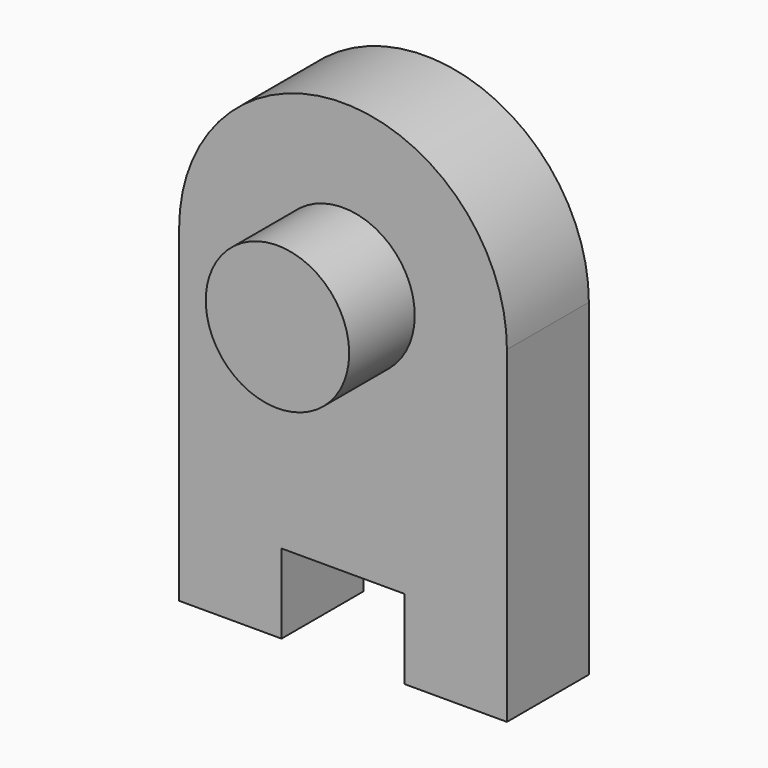
from build123d import *

# Parameters (mm, degrees)
F1_DEPTH = 250
F2_R     = 175
F3_DEPTH = 200


with BuildPart() as f1:
    # F0 (on Front) → F1 (new body)
    with BuildSketch(Plane.XZ):
        with BuildLine():
            Line((400, -800), (400, 0))
            ThreePointArc((400, 0), (0, 400), (-400, 0))
            Line((-400, 0), (-400, -800))
            Line((-400, -800), (-150, -800))
            Line((-150, -800), (-150, -606.184542))
            Line((-150, -606.184542), (150, -606.184542))
            Line((150, -606.184542), (150, -800))
            Line((150, -800), (400, -800))
        make_face()
    extrude(amount=F1_DEPTH)

    # F2 (on face) → F3 (join)
    with BuildSketch(Plane.XZ.offset(250)):
        Circle(F2_R)
    extrude(amount=F3_DEPTH)


solid = f1.part
